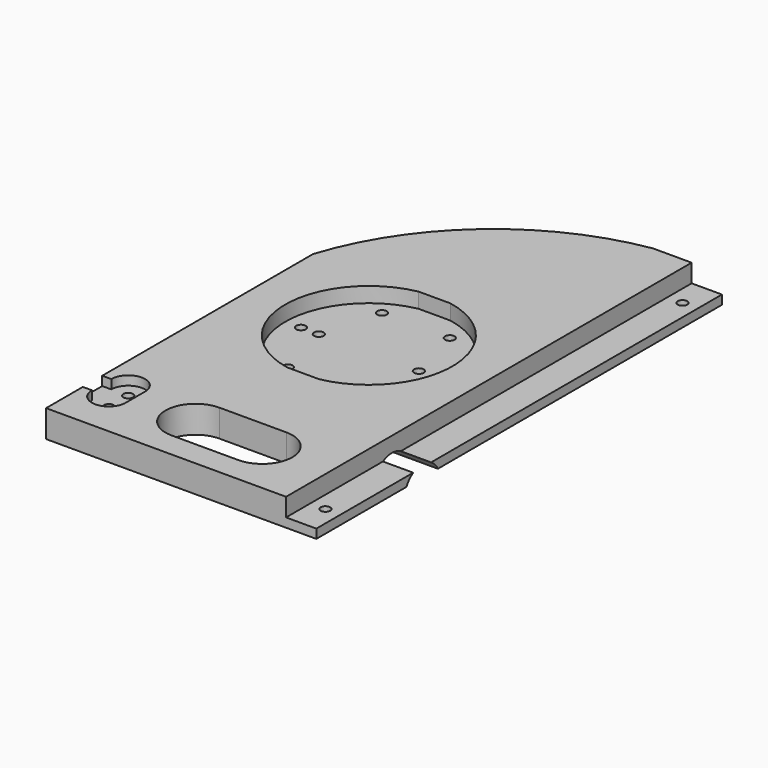
from build123d import *

# Parameters (mm, degrees)
PAD_DEPTH            = 83.675
POCKET001_DEPTH      = 5
SKETCH003_R          = 1.58
POCKET002_DEPTH      = 9.001
SKETCH006_R          = 1.58
POCKET_DEPTH         = 379.711606
POCKET_DEPTH_BACK    = 388.711606
SKETCH008_R          = 1.58
POCKET004_DEPTH      = 0.001
POCKET004_DEPTH_BACK = 9.001
POCKET005_DEPTH      = 0.001
POCKET005_DEPTH_BACK = 9.001
POCKET006_DEPTH      = 79.208699
POCKET006_DEPTH_BACK = 10.001
POCKET007_DEPTH      = 0.001
POCKET007_DEPTH_BACK = 9.001
POCKET008_DEPTH      = 3


with BuildPart() as part:
    # Sketch → Pad (new body, symmetric)
    with BuildSketch(Plane.XZ):
        Polygon((-6, 9), (-79.207699, 9), (-79.207699, 0), (0, 0), (10, 0), (10, 3), (0, 3), (0, 9), align=None)
    extrude(amount=PAD_DEPTH, both=True)

    # Sketch002 → Pocket001 (cut)
    with BuildSketch(Plane.XY.offset(9)):
        with BuildLine():
            Line((-34.353849, 27.1), (-39.603849, 27.1))
            Line((-39.603849, 27.1), (-44.853849, 27.1))
            ThreePointArc((-44.853849, 27.1), (-67.207699, 0), (-44.853849, -27.1))
            Line((-44.853849, -27.1), (-34.353849, -27.1))
            ThreePointArc((-34.353849, -27.1), (-12, 0), (-34.353849, 27.1))
        make_face()
    extrude(amount=-POCKET001_DEPTH, mode=Mode.SUBTRACT)

    # Sketch003 → Pocket002 (cut, through all)
    with BuildSketch(Plane.XY):
        with Locations((-50.806289, -19.403194)):
            Circle(SKETCH003_R)
        with Locations((-28.40141, -19.403194)):
            Circle(SKETCH003_R)
        with Locations((-28.40141, 19.403194)):
            Circle(SKETCH003_R)
        with Locations((-50.806289, 19.403194)):
            Circle(SKETCH003_R)
        with Locations((-62.008728, 0)):
            Circle(SKETCH003_R)
        with Locations((-56.108728, 0)):
            Circle(SKETCH003_R)
        with Locations((-17.198971, 0)):
            Circle(SKETCH003_R)
        with Locations((-23.098971, 0)):
            Circle(SKETCH003_R)
    extrude(amount=POCKET002_DEPTH, mode=Mode.SUBTRACT)

    # Sketch006 → Pocket (cut, two sides)
    with BuildSketch(Plane.XY) as pocket_sk:
        with Locations((5, 73.675)):
            Circle(SKETCH006_R)
    pocket = extrude(amount=-POCKET_DEPTH, mode=Mode.SUBTRACT) + extrude(pocket_sk.sketch, amount=POCKET_DEPTH_BACK, mode=Mode.SUBTRACT)

    # Mirrored: Pocket across Sketch006 H_Axis
    add(pocket.mirror(Plane.ZX), mode=Mode.SUBTRACT)

    # Sketch008 → Pocket004 (cut, two sides)
    with BuildSketch(Plane.XY) as pocket004_sk:
        with Locations((-70.627699, -68.515)):
            Circle(SKETCH008_R)
        with Locations((-70.627699, -60.515)):
            Circle(SKETCH008_R)
    extrude(amount=-POCKET004_DEPTH, mode=Mode.SUBTRACT)
    extrude(pocket004_sk.sketch, amount=POCKET004_DEPTH_BACK, mode=Mode.SUBTRACT)

    # Sketch005 → Pocket005 (cut, two sides)
    with BuildSketch(Plane.XY) as pocket005_sk:
        with BuildLine():
            ThreePointArc((-5.147488, 84.556872), (-51.101438, 66.874328), (-79.207699, 26.445674))
            Line((-79.207699, 26.445674), (-107.360429, 26.445674))
            Line((-107.360429, 26.445674), (-107.360429, 113.139377))
            Line((-5.147488, 113.139377), (-107.360429, 113.139377))
            Line((-5.147488, 84.556872), (-5.147488, 113.139377))
        make_face()
    extrude(amount=-POCKET005_DEPTH, mode=Mode.SUBTRACT)
    extrude(pocket005_sk.sketch, amount=POCKET005_DEPTH_BACK, mode=Mode.SUBTRACT)

    # Sketch009 → Pocket006 (cut, two sides)
    with BuildSketch(Plane.YZ) as pocket006_sk:
        with BuildLine():
            ThreePointArc((-33.515, 0), (-40.015, 4), (-46.515, 0))
            Line((-40.015, 0), (-46.515, 0))
            Line((-40.015, 0), (-33.515, 0))
        make_face()
    extrude(amount=-POCKET006_DEPTH, mode=Mode.SUBTRACT)
    extrude(pocket006_sk.sketch, amount=POCKET006_DEPTH_BACK, mode=Mode.SUBTRACT)

    # Sketch010 → Pocket007 (cut, two sides)
    with BuildSketch(Plane.XY) as pocket007_sk:
        with BuildLine():
            ThreePointArc((-44.458302, -55.549289), (-54.363008, -65.453995), (-44.458302, -75.358701))
            Line((-44.458302, -75.358701), (-22.419182, -75.358701))
            ThreePointArc((-22.419182, -75.358701), (-12.514476, -65.453995), (-22.419182, -55.549289))
            Line((-22.419182, -55.549289), (-44.458302, -55.549289))
        make_face()
    extrude(amount=-POCKET007_DEPTH, mode=Mode.SUBTRACT)
    extrude(pocket007_sk.sketch, amount=POCKET007_DEPTH_BACK, mode=Mode.SUBTRACT)

    # Sketch007 → Pocket008 (cut)
    with BuildSketch(Plane.XY.offset(9)):
        with BuildLine():
            Line((-79.207699, -64.515), (-79.207699, -68.515))
            Line((-76.207699, -68.515), (-79.207699, -68.515))
            ThreePointArc((-76.207699, -68.515), (-70.627699, -74.095), (-65.047699, -68.515))
            Line((-65.047699, -68.515), (-65.047699, -64.515))
            Line((-65.047699, -60.515), (-65.047699, -64.515))
            ThreePointArc((-65.047699, -60.515), (-70.627699, -54.935), (-76.207699, -60.515))
            Line((-76.207699, -60.515), (-79.207699, -60.515))
            Line((-79.207699, -64.515), (-79.207699, -60.515))
        make_face()
    extrude(amount=-POCKET008_DEPTH, mode=Mode.SUBTRACT)


solid = part.part
